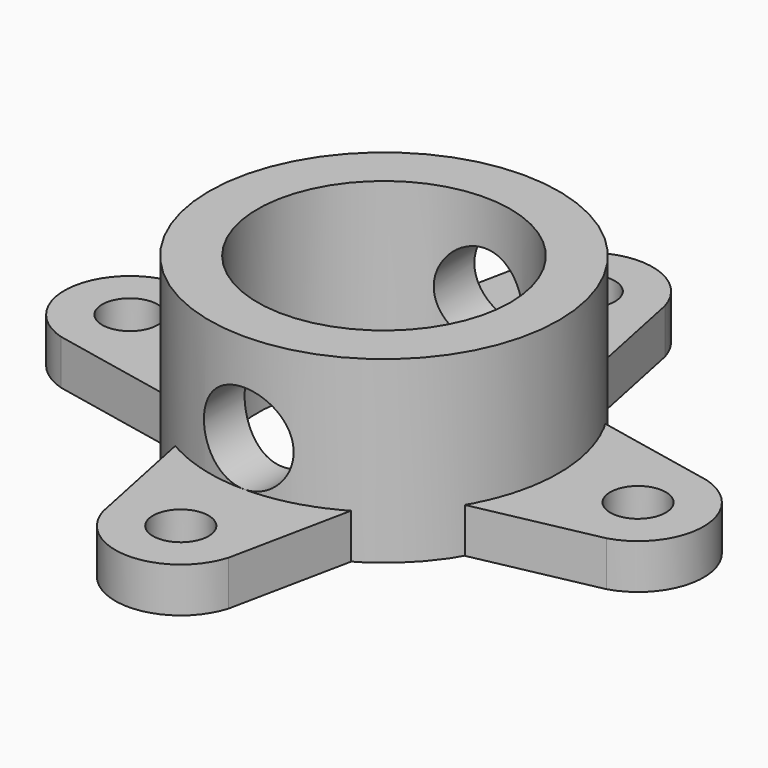
from build123d import *

# Parameters (mm, degrees)
F1_R     = 1.55
F2_DEPTH = 2.5
F0_R     = 9.75
F0_R_2   = 7.05
F3_DEPTH = 10
F6_D     = 5
F6_DEPTH = 19.5


with BuildPart() as f2:
    # F1 (on Top) → F2 (new body)
    with BuildSketch(Plane.XY):
        with BuildLine():
            ThreePointArc((3.5, 15.209301), (0, 17.817577), (-3.5, 15.209301))
            Line((-3.5, 15.209301), (-4.897816, 8.425027))
            ThreePointArc((-4.897816, 8.425027), (0, 9.756637), (4.897816, 8.425027))
            Line((4.897816, 8.425027), (3.5, 15.209301))
        make_face()
        with Locations((0, 14.165145)):
            Circle(F1_R, mode=Mode.SUBTRACT)
        with BuildLine():
            Line((-8.425027, 4.897816), (-15.209301, 3.5))
            ThreePointArc((-15.209301, 3.5), (-17.817577, 0), (-15.209301, -3.5))
            Line((-15.209301, -3.5), (-8.425027, -4.897816))
            ThreePointArc((-8.425027, -4.897816), (-9.756637, 0), (-8.425027, 4.897816))
        make_face()
        with Locations((-14.165145, 0)):
            Circle(F1_R, mode=Mode.SUBTRACT)
        with BuildLine():
            Line((-4.897816, -8.425027), (-3.5, -15.209301))
            ThreePointArc((-3.5, -15.209301), (0, -17.817577), (3.5, -15.209301))
            Line((3.5, -15.209301), (4.897816, -8.425027))
            ThreePointArc((4.897816, -8.425027), (0, -9.756637), (-4.897816, -8.425027))
        make_face()
        with Locations((0, -14.165145)):
            Circle(F1_R, mode=Mode.SUBTRACT)
        with BuildLine():
            Line((8.425027, -4.897816), (15.209301, -3.5))
            ThreePointArc((15.209301, -3.5), (17.817577, 0), (15.209301, 3.5))
            Line((15.209301, 3.5), (8.425027, 4.897816))
            ThreePointArc((8.425027, 4.897816), (9.756637, 0), (8.425027, -4.897816))
        make_face()
        with Locations((14.165145, 0)):
            Circle(F1_R, mode=Mode.SUBTRACT)
    extrude(amount=F2_DEPTH)


with BuildPart() as f3:
    # F0 (on Top) → F3 (new body)
    with BuildSketch(Plane.XY):
        Circle(F0_R)
        Circle(F0_R_2, mode=Mode.SUBTRACT)
    extrude(amount=F3_DEPTH)

    # F6
    with Locations(Plane.XZ.offset(9.75)):
        with Locations((0, 5)):
            Hole(F6_D / 2, depth=F6_DEPTH)


solid = Compound([f2.part, f3.part])
